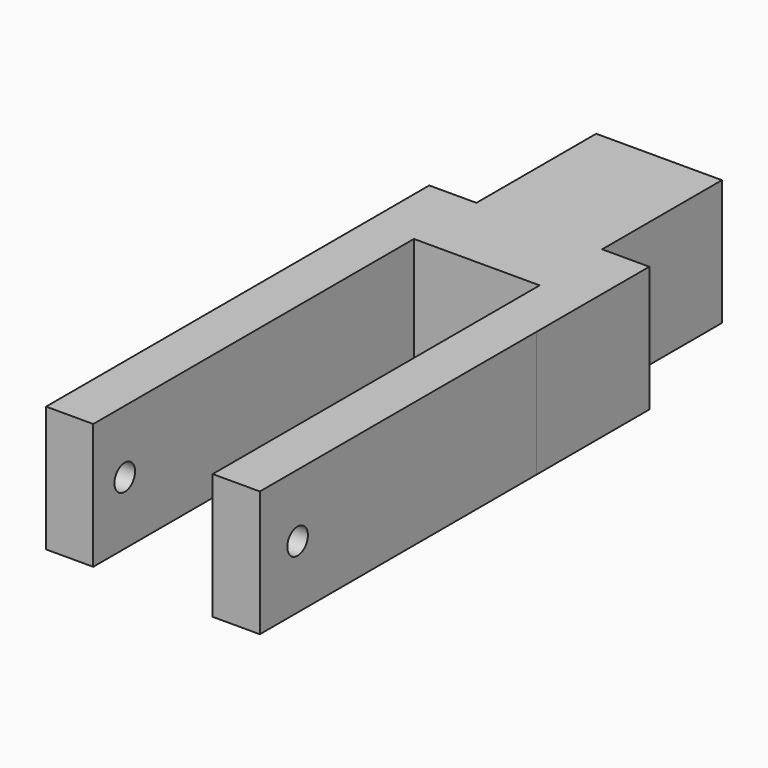
from build123d import *

# Parameters (mm, degrees)
PAD_DEPTH    = 40
SKETCH001_R  = 4.1
POCKET_DEPTH = 70.0155982259


with BuildPart() as part:
    # Sketch (on XY_Plane of Origin) → Pad (new body)
    with BuildSketch(Plane.XY):
        Polygon((-35, 0), (-35, 110), (-35, 152.37407), (-20, 152.37407), (-20, 200), (0, 200), (20.001688, 200), (20.001688, 152.37407), (35.001688, 152.37407), (35.0001418741, 107.5269458609), (34.9829445099, -2.4730527948), (19.9829445099, -2.4730527948), (20.0008612126, 127.5269459706), (0, 127.5269459706), (-20, 127.5269459706), (-20, 0), align=None)
    extrude(amount=PAD_DEPTH)

    # Sketch001 (on Face3 of Pad) → Pocket (cut, through all)
    with BuildSketch(Plane(origin=(34.9833302911, -0.0054692826, 0), x_dir=(0.0001563397, 0.9999999878, 0), z_dir=(0.9999999878, -0.0001563397, 0))):
        with Locations((12.5324164576, 20)):
            Circle(SKETCH001_R)
    extrude(amount=-POCKET_DEPTH, mode=Mode.SUBTRACT)


solid = part.part
